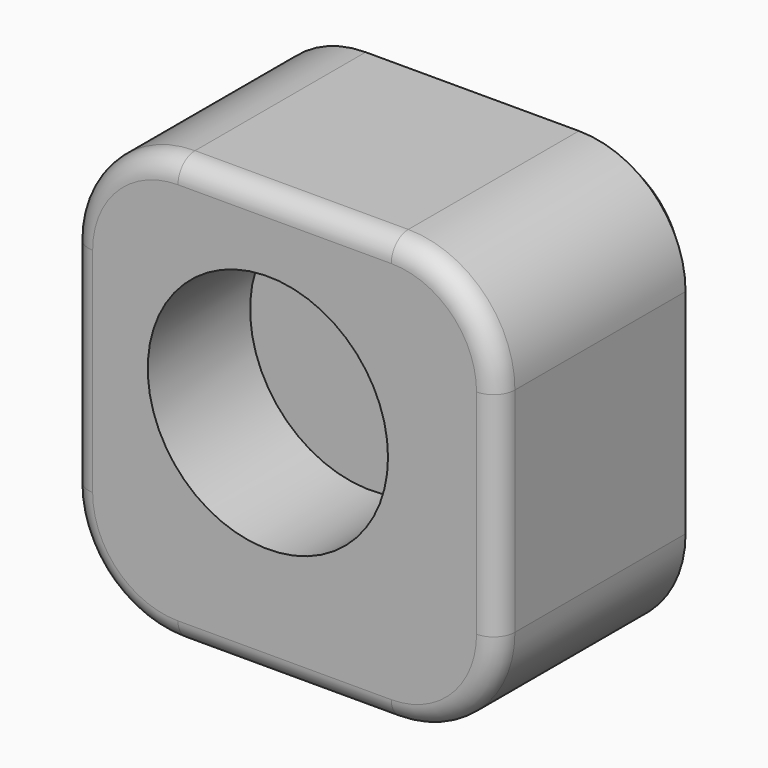
from build123d import *

# Parameters (mm, degrees)
F1_DEPTH = 60
F2_R     = 5
F3_SIZE  = 5
F4_R     = 28.16198
F5_DEPTH = 30


with BuildPart() as f1:
    # F0 (on Front) → F1 (new body)
    with BuildSketch(Plane.XZ):
        with BuildLine():
            Line((49.816129, 83.248417), (-0.183871, 83.248417))
            ThreePointArc((-0.183871, 83.248417), (-17.861541, 75.926086), (-25.183871, 58.248417))
            Line((-25.183871, 58.248417), (-25.183871, 8.248417))
            ThreePointArc((-25.183871, 8.248417), (-17.861541, -9.429253), (-0.183871, -16.751583))
            Line((-0.183871, -16.751583), (49.816129, -16.751583))
            ThreePointArc((49.816129, -16.751583), (67.493798, -9.429253), (74.816129, 8.248417))
            Line((74.816129, 8.248417), (74.816129, 58.248417))
            ThreePointArc((74.816129, 58.248417), (67.493798, 75.926086), (49.816129, 83.248417))
        make_face()
    extrude(amount=F1_DEPTH)

    # F2
    f2_edges = [f1.edges().sort_by_distance(p)[0] for p in [
        (74.816129, -60, 33.248417),
        (67.493798, -60, 75.926086),
        (24.816129, -60, 83.248417),
        (-17.861541, -60, 75.926086),
        (-25.183871, -60, 33.248417),
        (-17.861541, -60, -9.429253),
        (24.816129, -60, -16.751583),
        (67.493798, -60, -9.429253),
    ]]
    fillet(f2_edges, radius=F2_R)

    # F3
    f3_edges = [f1.edges().sort_by_distance(p)[0] for p in [
        (74.816129, 0, 33.248417),
        (67.493798, 0, 75.926086),
        (24.816129, 0, 83.248417),
        (-17.861541, 0, 75.926086),
        (-25.183871, 0, 33.248417),
        (-17.861541, 0, -9.429253),
        (24.816129, 0, -16.751583),
        (67.493798, 0, -9.429253),
    ]]
    chamfer(f3_edges, length=F3_SIZE)

    # F4 (on face) → F5 (cut)
    with BuildSketch(Plane.XZ.offset(60)):
        with Locations((20.895224, 38.032025)):
            Circle(F4_R)
    extrude(amount=-F5_DEPTH, mode=Mode.SUBTRACT)


solid = f1.part
